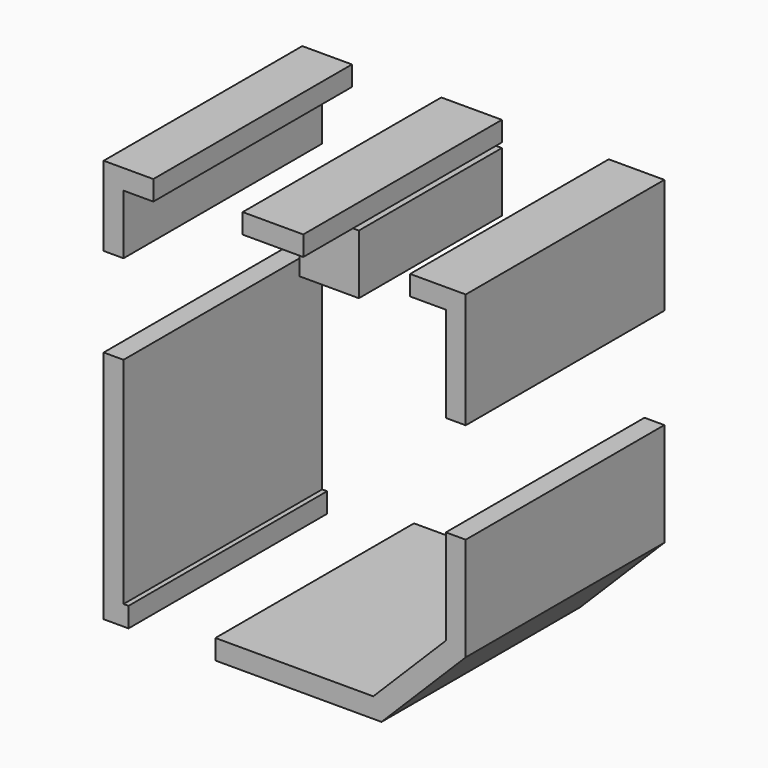
from build123d import *

# Parameters (mm, degrees)
F0_W     = 610
F0_H     = 200
F1_DEPTH = 2500
F2_W     = 600
F2_H     = 600
F3_DEPTH = 1800


with BuildPart() as f1:
    # F0 (on Front) → F1 (new body)
    with BuildSketch(Plane.XZ):
        Polygon((0, -600), (0, 0), (300, 0), (300, 200), (-200, 200), (-200, -600), align=None)
        with Locations((1505, 100)):
            Rectangle(F0_W, F0_H)
        Polygon((2886, 200), (2886, 0), (3246, 0), (3246, -960), (3446, -960), (3446, 200), align=None)
        Polygon((3446, -1974), (3246, -1974), (3246, -2934), (2514.999982, -3665.296776), (924.999994, -3665.109152), (924.976393, -3865.109151), (2597.856697, -3865.306555), (3446, -3016.818938), align=None)
        Polygon((50, -3665.0059), (0, -3665), (0, -1500), (-200, -1500), (-200, -3864.976401), (49.976399, -3865.005899), align=None)
    extrude(amount=F1_DEPTH)


with BuildPart() as f3:
    # F2 (on Front) → F3 (new body)
    with BuildSketch(Plane.XZ):
        with Locations((1510, -350)):
            Rectangle(F2_W, F2_H)
    extrude(amount=F3_DEPTH)


solid = Compound([f1.part, f3.part])
